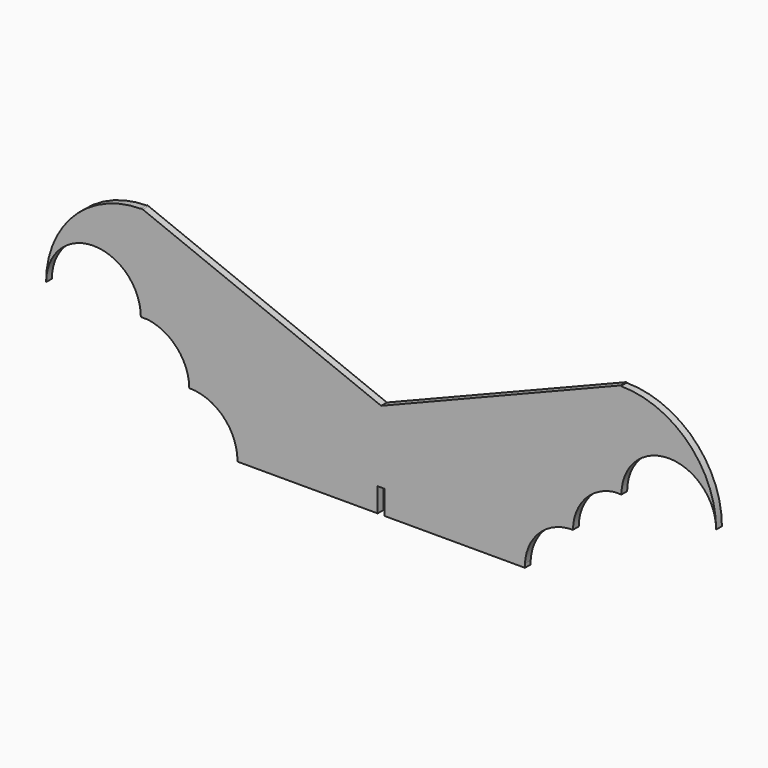
from build123d import *

# Parameters (mm, degrees)
F1_DEPTH = 3
F2_DEPTH = 3
F3_DEPTH = 3


with BuildPart() as f1:
    # F0 (on Front) → F1 (new body)
    with BuildSketch(Plane.XZ):
        with BuildLine():
            Line((-63.069923, -8.252302), (-63.069923, 21.488009))
            Line((-63.069923, 21.488009), (-3.069923, 21.488009))
            Line((-3.069923, 21.488009), (-102.48633, 61.261525))
            ThreePointArc((-102.48633, 61.261525), (-102.778119, 61.264736), (-103.069923, 61.265806))
            ThreePointArc((-103.069923, 61.265806), (-131.197073, 49.615159), (-142.84772, 21.488009))
            Line((-142.84772, 21.488009), (-142.820399, 21.488009))
            ThreePointArc((-142.820399, 21.488009), (-123.16106, 41.238275), (-103.320288, 21.670281))
            ThreePointArc((-103.320288, 21.670281), (-103.195108, 21.671458), (-103.069923, 21.67185))
            ThreePointArc((-103.069923, 21.67185), (-101.715046, 21.625837), (-100.366413, 21.488009))
            ThreePointArc((-100.366413, 21.488009), (-88.104601, 14.924745), (-83.101084, 1.948101))
            ThreePointArc((-83.101084, 1.948101), (-73.605168, -0.428708), (-66.369074, -7.021171))
            ThreePointArc((-66.369074, -7.021171), (-64.722646, -7.64517), (-63.069923, -8.252302))
        make_face()
        with BuildLine():
            Line((-3.069923, 21.488009), (-63.069923, 21.488009))
            Line((-63.069923, 21.488009), (-63.069923, -8.252302))
            ThreePointArc((-63.069923, -8.252302), (-34.240975, -15.927676), (-4.519923, -18.511991))
            Line((-4.519923, -18.511991), (-4.519923, -8.511991))
            Line((-4.519923, -8.511991), (-3.069923, -8.511991))
            Line((-3.069923, -8.511991), (-3.069923, 21.488009))
        make_face()
        with BuildLine():
            Line((96.346485, 61.261525), (-3.069923, 21.488009))
            Line((-3.069923, 21.488009), (56.930077, 21.488009))
            Line((56.930077, 21.488009), (56.930077, -9.352978))
            ThreePointArc((56.930077, -9.352978), (58.132721, -8.936963), (59.33223, -8.511991))
            ThreePointArc((59.33223, -8.511991), (66.707529, -0.856368), (76.961238, 1.948101))
            ThreePointArc((76.961238, 1.948101), (81.964756, 14.924745), (94.226567, 21.488009))
            ThreePointArc((94.226567, 21.488009), (95.5752, 21.625837), (96.930077, 21.67185))
            ThreePointArc((96.930077, 21.67185), (97.055262, 21.671458), (97.180442, 21.670281))
            ThreePointArc((97.180442, 21.670281), (117.021214, 41.238275), (136.680553, 21.488009))
            Line((136.680553, 21.488009), (136.707874, 21.488009))
            ThreePointArc((136.707874, 21.488009), (125.057227, 49.615159), (96.930077, 61.265806))
            ThreePointArc((96.930077, 61.265806), (96.638273, 61.264736), (96.346485, 61.261525))
        make_face()
        with BuildLine():
            Line((56.930077, 21.488009), (-3.069923, 21.488009))
            Line((-3.069923, 21.488009), (-3.069923, -8.511991))
            Line((-3.069923, -8.511991), (-1.619923, -8.511991))
            Line((-1.619923, -8.511991), (-1.619923, -18.511991))
            Line((-1.619923, -18.511991), (0, -18.511991))
            Line((0, -18.511991), (3.505662, -18.511991))
            ThreePointArc((3.505662, -18.511991), (30.583896, -16.067511), (56.930077, -9.352978))
            Line((56.930077, -9.352978), (56.930077, 21.488009))
        make_face()
        with BuildLine():
            ThreePointArc((-4.519923, -18.511991), (-34.240975, -15.927676), (-63.069923, -8.252302))
            Line((-63.069923, -8.252302), (-63.069923, -16.932933))
            ThreePointArc((-63.069923, -16.932933), (-63.040054, -17.72218), (-63.041318, -18.511991))
            Line((-63.041318, -18.511991), (-4.519923, -18.511991))
        make_face()
        with BuildLine():
            Line((-63.069923, -16.932933), (-63.069923, -8.252302))
            ThreePointArc((-63.069923, -8.252302), (-64.722646, -7.64517), (-66.369074, -7.021171))
            ThreePointArc((-66.369074, -7.021171), (-64.062061, -11.758223), (-63.069923, -16.932933))
        make_face()
        with BuildLine():
            ThreePointArc((-103.069923, 61.265806), (-102.778119, 61.264736), (-102.48633, 61.261525))
            Line((-102.48633, 61.261525), (-103.069923, 61.488009))
            Line((-103.069923, 61.488009), (-103.069923, 61.265806))
        make_face()
        with BuildLine():
            Line((96.930077, 61.488009), (96.346485, 61.261525))
            ThreePointArc((96.346485, 61.261525), (96.638273, 61.264736), (96.930077, 61.265806))
            Line((96.930077, 61.265806), (96.930077, 61.488009))
        make_face()
        with BuildLine():
            ThreePointArc((-63.041318, -18.511991), (-63.040054, -17.72218), (-63.069923, -16.932933))
            Line((-63.069923, -16.932933), (-63.069923, -18.085031))
            Line((-63.069923, -18.085031), (-63.069923, -18.511991))
            Line((-63.069923, -18.511991), (-63.041318, -18.511991))
        make_face()
        with BuildLine():
            ThreePointArc((59.33223, -8.511991), (58.132721, -8.936963), (56.930077, -9.352978))
            Line((56.930077, -9.352978), (56.930077, -16.932933))
            ThreePointArc((56.930077, -16.932933), (57.665405, -12.589603), (59.33223, -8.511991))
        make_face()
        with BuildLine():
            Line((56.930077, -16.932933), (56.930077, -9.352978))
            ThreePointArc((56.930077, -9.352978), (30.583896, -16.067511), (3.505662, -18.511991))
            Line((3.505662, -18.511991), (56.901472, -18.511991))
            ThreePointArc((56.901472, -18.511991), (56.900208, -17.72218), (56.930077, -16.932933))
        make_face()
        with BuildLine():
            Line((56.930077, -18.085031), (56.930077, -16.932933))
            ThreePointArc((56.930077, -16.932933), (56.900208, -17.72218), (56.901472, -18.511991))
            Line((56.901472, -18.511991), (56.930077, -18.511991))
            Line((56.930077, -18.511991), (56.930077, -18.085031))
        make_face()
        with BuildLine():
            ThreePointArc((0, -18.511991), (1.752831, -18.520995), (3.505662, -18.511991))
            Line((3.505662, -18.511991), (0, -18.511991))
        make_face()
        with BuildLine():
            Line((-103.069923, 21.488009), (-100.366413, 21.488009))
            ThreePointArc((-100.366413, 21.488009), (-101.715046, 21.625837), (-103.069923, 21.67185))
            Line((-103.069923, 21.67185), (-103.069923, 21.488009))
        make_face()
        with BuildLine():
            Line((-103.069923, 21.488009), (-103.069923, 21.67185))
            ThreePointArc((-103.069923, 21.67185), (-103.195108, 21.671458), (-103.320288, 21.670281))
            ThreePointArc((-103.320288, 21.670281), (-103.319657, 21.579146), (-103.319447, 21.488009))
            Line((-103.319447, 21.488009), (-103.069923, 21.488009))
        make_face()
        with BuildLine():
            ThreePointArc((96.930077, 21.67185), (95.5752, 21.625837), (94.226567, 21.488009))
            Line((94.226567, 21.488009), (96.930077, 21.488009))
            Line((96.930077, 21.488009), (96.930077, 21.67185))
        make_face()
        with BuildLine():
            ThreePointArc((97.179601, 21.488009), (97.179811, 21.579146), (97.180442, 21.670281))
            ThreePointArc((97.180442, 21.670281), (97.055262, 21.671458), (96.930077, 21.67185))
            Line((96.930077, 21.67185), (96.930077, 21.488009))
            Line((96.930077, 21.488009), (97.179601, 21.488009))
        make_face()
    extrude(amount=F1_DEPTH)


with BuildPart() as f2:
    # F0 (on Front) → F2 (new body)
    with BuildSketch(Plane.XZ):
        with BuildLine():
            Line((-63.069923, -8.252302), (-63.069923, 21.488009))
            Line((-63.069923, 21.488009), (-3.069923, 21.488009))
            Line((-3.069923, 21.488009), (-102.48633, 61.261525))
            ThreePointArc((-102.48633, 61.261525), (-102.778119, 61.264736), (-103.069923, 61.265806))
            ThreePointArc((-103.069923, 61.265806), (-131.197073, 49.615159), (-142.84772, 21.488009))
            Line((-142.84772, 21.488009), (-142.820399, 21.488009))
            ThreePointArc((-142.820399, 21.488009), (-123.16106, 41.238275), (-103.320288, 21.670281))
            ThreePointArc((-103.320288, 21.670281), (-103.195108, 21.671458), (-103.069923, 21.67185))
            ThreePointArc((-103.069923, 21.67185), (-101.715046, 21.625837), (-100.366413, 21.488009))
            ThreePointArc((-100.366413, 21.488009), (-88.104601, 14.924745), (-83.101084, 1.948101))
            ThreePointArc((-83.101084, 1.948101), (-73.605168, -0.428708), (-66.369074, -7.021171))
            ThreePointArc((-66.369074, -7.021171), (-64.722646, -7.64517), (-63.069923, -8.252302))
        make_face()
        with BuildLine():
            Line((-3.069923, 21.488009), (-63.069923, 21.488009))
            Line((-63.069923, 21.488009), (-63.069923, -8.252302))
            ThreePointArc((-63.069923, -8.252302), (-34.240975, -15.927676), (-4.519923, -18.511991))
            Line((-4.519923, -18.511991), (-4.519923, -8.511991))
            Line((-4.519923, -8.511991), (-3.069923, -8.511991))
            Line((-3.069923, -8.511991), (-3.069923, 21.488009))
        make_face()
        with BuildLine():
            Line((96.346485, 61.261525), (-3.069923, 21.488009))
            Line((-3.069923, 21.488009), (56.930077, 21.488009))
            Line((56.930077, 21.488009), (56.930077, -9.352978))
            ThreePointArc((56.930077, -9.352978), (58.132721, -8.936963), (59.33223, -8.511991))
            ThreePointArc((59.33223, -8.511991), (66.707529, -0.856368), (76.961238, 1.948101))
            ThreePointArc((76.961238, 1.948101), (81.964756, 14.924745), (94.226567, 21.488009))
            ThreePointArc((94.226567, 21.488009), (95.5752, 21.625837), (96.930077, 21.67185))
            ThreePointArc((96.930077, 21.67185), (97.055262, 21.671458), (97.180442, 21.670281))
            ThreePointArc((97.180442, 21.670281), (117.021214, 41.238275), (136.680553, 21.488009))
            Line((136.680553, 21.488009), (136.707874, 21.488009))
            ThreePointArc((136.707874, 21.488009), (125.057227, 49.615159), (96.930077, 61.265806))
            ThreePointArc((96.930077, 61.265806), (96.638273, 61.264736), (96.346485, 61.261525))
        make_face()
        with BuildLine():
            Line((56.930077, 21.488009), (-3.069923, 21.488009))
            Line((-3.069923, 21.488009), (-3.069923, -8.511991))
            Line((-3.069923, -8.511991), (-1.619923, -8.511991))
            Line((-1.619923, -8.511991), (-1.619923, -18.511991))
            Line((-1.619923, -18.511991), (0, -18.511991))
            Line((0, -18.511991), (3.505662, -18.511991))
            ThreePointArc((3.505662, -18.511991), (30.583896, -16.067511), (56.930077, -9.352978))
            Line((56.930077, -9.352978), (56.930077, 21.488009))
        make_face()
        with BuildLine():
            ThreePointArc((-4.519923, -18.511991), (-34.240975, -15.927676), (-63.069923, -8.252302))
            Line((-63.069923, -8.252302), (-63.069923, -16.932933))
            ThreePointArc((-63.069923, -16.932933), (-63.040054, -17.72218), (-63.041318, -18.511991))
            Line((-63.041318, -18.511991), (-4.519923, -18.511991))
        make_face()
        with BuildLine():
            Line((-63.069923, -16.932933), (-63.069923, -8.252302))
            ThreePointArc((-63.069923, -8.252302), (-64.722646, -7.64517), (-66.369074, -7.021171))
            ThreePointArc((-66.369074, -7.021171), (-64.062061, -11.758223), (-63.069923, -16.932933))
        make_face()
        with BuildLine():
            ThreePointArc((-103.069923, 61.265806), (-102.778119, 61.264736), (-102.48633, 61.261525))
            Line((-102.48633, 61.261525), (-103.069923, 61.488009))
            Line((-103.069923, 61.488009), (-103.069923, 61.265806))
        make_face()
        with BuildLine():
            Line((96.930077, 61.488009), (96.346485, 61.261525))
            ThreePointArc((96.346485, 61.261525), (96.638273, 61.264736), (96.930077, 61.265806))
            Line((96.930077, 61.265806), (96.930077, 61.488009))
        make_face()
        with BuildLine():
            ThreePointArc((-63.041318, -18.511991), (-63.040054, -17.72218), (-63.069923, -16.932933))
            Line((-63.069923, -16.932933), (-63.069923, -18.085031))
            Line((-63.069923, -18.085031), (-63.069923, -18.511991))
            Line((-63.069923, -18.511991), (-63.041318, -18.511991))
        make_face()
        with BuildLine():
            ThreePointArc((59.33223, -8.511991), (58.132721, -8.936963), (56.930077, -9.352978))
            Line((56.930077, -9.352978), (56.930077, -16.932933))
            ThreePointArc((56.930077, -16.932933), (57.665405, -12.589603), (59.33223, -8.511991))
        make_face()
        with BuildLine():
            Line((56.930077, -16.932933), (56.930077, -9.352978))
            ThreePointArc((56.930077, -9.352978), (30.583896, -16.067511), (3.505662, -18.511991))
            Line((3.505662, -18.511991), (56.901472, -18.511991))
            ThreePointArc((56.901472, -18.511991), (56.900208, -17.72218), (56.930077, -16.932933))
        make_face()
        with BuildLine():
            Line((56.930077, -18.085031), (56.930077, -16.932933))
            ThreePointArc((56.930077, -16.932933), (56.900208, -17.72218), (56.901472, -18.511991))
            Line((56.901472, -18.511991), (56.930077, -18.511991))
            Line((56.930077, -18.511991), (56.930077, -18.085031))
        make_face()
        with BuildLine():
            ThreePointArc((0, -18.511991), (1.752831, -18.520995), (3.505662, -18.511991))
            Line((3.505662, -18.511991), (0, -18.511991))
        make_face()
        with BuildLine():
            Line((-103.069923, 21.488009), (-100.366413, 21.488009))
            ThreePointArc((-100.366413, 21.488009), (-101.715046, 21.625837), (-103.069923, 21.67185))
            Line((-103.069923, 21.67185), (-103.069923, 21.488009))
        make_face()
        with BuildLine():
            Line((-103.069923, 21.488009), (-103.069923, 21.67185))
            ThreePointArc((-103.069923, 21.67185), (-103.195108, 21.671458), (-103.320288, 21.670281))
            ThreePointArc((-103.320288, 21.670281), (-103.319657, 21.579146), (-103.319447, 21.488009))
            Line((-103.319447, 21.488009), (-103.069923, 21.488009))
        make_face()
        with BuildLine():
            ThreePointArc((96.930077, 21.67185), (95.5752, 21.625837), (94.226567, 21.488009))
            Line((94.226567, 21.488009), (96.930077, 21.488009))
            Line((96.930077, 21.488009), (96.930077, 21.67185))
        make_face()
        with BuildLine():
            ThreePointArc((97.179601, 21.488009), (97.179811, 21.579146), (97.180442, 21.670281))
            ThreePointArc((97.180442, 21.670281), (97.055262, 21.671458), (96.930077, 21.67185))
            Line((96.930077, 21.67185), (96.930077, 21.488009))
            Line((96.930077, 21.488009), (97.179601, 21.488009))
        make_face()
    extrude(amount=F2_DEPTH)


with BuildPart() as f3:
    # F0 (on Front) → F3 (new body)
    with BuildSketch(Plane.XZ):
        with BuildLine():
            Line((-63.069923, -8.252302), (-63.069923, 21.488009))
            Line((-63.069923, 21.488009), (-3.069923, 21.488009))
            Line((-3.069923, 21.488009), (-102.48633, 61.261525))
            ThreePointArc((-102.48633, 61.261525), (-102.778119, 61.264736), (-103.069923, 61.265806))
            ThreePointArc((-103.069923, 61.265806), (-131.197073, 49.615159), (-142.84772, 21.488009))
            Line((-142.84772, 21.488009), (-142.820399, 21.488009))
            ThreePointArc((-142.820399, 21.488009), (-123.16106, 41.238275), (-103.320288, 21.670281))
            ThreePointArc((-103.320288, 21.670281), (-103.195108, 21.671458), (-103.069923, 21.67185))
            ThreePointArc((-103.069923, 21.67185), (-101.715046, 21.625837), (-100.366413, 21.488009))
            ThreePointArc((-100.366413, 21.488009), (-88.104601, 14.924745), (-83.101084, 1.948101))
            ThreePointArc((-83.101084, 1.948101), (-73.605168, -0.428708), (-66.369074, -7.021171))
            ThreePointArc((-66.369074, -7.021171), (-64.722646, -7.64517), (-63.069923, -8.252302))
        make_face()
        with BuildLine():
            Line((-3.069923, 21.488009), (-63.069923, 21.488009))
            Line((-63.069923, 21.488009), (-63.069923, -8.252302))
            ThreePointArc((-63.069923, -8.252302), (-34.240975, -15.927676), (-4.519923, -18.511991))
            Line((-4.519923, -18.511991), (-4.519923, -8.511991))
            Line((-4.519923, -8.511991), (-3.069923, -8.511991))
            Line((-3.069923, -8.511991), (-3.069923, 21.488009))
        make_face()
        with BuildLine():
            Line((96.346485, 61.261525), (-3.069923, 21.488009))
            Line((-3.069923, 21.488009), (56.930077, 21.488009))
            Line((56.930077, 21.488009), (56.930077, -9.352978))
            ThreePointArc((56.930077, -9.352978), (58.132721, -8.936963), (59.33223, -8.511991))
            ThreePointArc((59.33223, -8.511991), (66.707529, -0.856368), (76.961238, 1.948101))
            ThreePointArc((76.961238, 1.948101), (81.964756, 14.924745), (94.226567, 21.488009))
            ThreePointArc((94.226567, 21.488009), (95.5752, 21.625837), (96.930077, 21.67185))
            ThreePointArc((96.930077, 21.67185), (97.055262, 21.671458), (97.180442, 21.670281))
            ThreePointArc((97.180442, 21.670281), (117.021214, 41.238275), (136.680553, 21.488009))
            Line((136.680553, 21.488009), (136.707874, 21.488009))
            ThreePointArc((136.707874, 21.488009), (125.057227, 49.615159), (96.930077, 61.265806))
            ThreePointArc((96.930077, 61.265806), (96.638273, 61.264736), (96.346485, 61.261525))
        make_face()
        with BuildLine():
            Line((56.930077, 21.488009), (-3.069923, 21.488009))
            Line((-3.069923, 21.488009), (-3.069923, -8.511991))
            Line((-3.069923, -8.511991), (-1.619923, -8.511991))
            Line((-1.619923, -8.511991), (-1.619923, -18.511991))
            Line((-1.619923, -18.511991), (0, -18.511991))
            Line((0, -18.511991), (3.505662, -18.511991))
            ThreePointArc((3.505662, -18.511991), (30.583896, -16.067511), (56.930077, -9.352978))
            Line((56.930077, -9.352978), (56.930077, 21.488009))
        make_face()
        with BuildLine():
            ThreePointArc((-4.519923, -18.511991), (-34.240975, -15.927676), (-63.069923, -8.252302))
            Line((-63.069923, -8.252302), (-63.069923, -16.932933))
            ThreePointArc((-63.069923, -16.932933), (-63.040054, -17.72218), (-63.041318, -18.511991))
            Line((-63.041318, -18.511991), (-4.519923, -18.511991))
        make_face()
        with BuildLine():
            Line((-63.069923, -16.932933), (-63.069923, -8.252302))
            ThreePointArc((-63.069923, -8.252302), (-64.722646, -7.64517), (-66.369074, -7.021171))
            ThreePointArc((-66.369074, -7.021171), (-64.062061, -11.758223), (-63.069923, -16.932933))
        make_face()
        with BuildLine():
            ThreePointArc((-103.069923, 61.265806), (-102.778119, 61.264736), (-102.48633, 61.261525))
            Line((-102.48633, 61.261525), (-103.069923, 61.488009))
            Line((-103.069923, 61.488009), (-103.069923, 61.265806))
        make_face()
        with BuildLine():
            Line((96.930077, 61.488009), (96.346485, 61.261525))
            ThreePointArc((96.346485, 61.261525), (96.638273, 61.264736), (96.930077, 61.265806))
            Line((96.930077, 61.265806), (96.930077, 61.488009))
        make_face()
        with BuildLine():
            ThreePointArc((-63.041318, -18.511991), (-63.040054, -17.72218), (-63.069923, -16.932933))
            Line((-63.069923, -16.932933), (-63.069923, -18.085031))
            Line((-63.069923, -18.085031), (-63.069923, -18.511991))
            Line((-63.069923, -18.511991), (-63.041318, -18.511991))
        make_face()
        with BuildLine():
            ThreePointArc((59.33223, -8.511991), (58.132721, -8.936963), (56.930077, -9.352978))
            Line((56.930077, -9.352978), (56.930077, -16.932933))
            ThreePointArc((56.930077, -16.932933), (57.665405, -12.589603), (59.33223, -8.511991))
        make_face()
        with BuildLine():
            Line((56.930077, -16.932933), (56.930077, -9.352978))
            ThreePointArc((56.930077, -9.352978), (30.583896, -16.067511), (3.505662, -18.511991))
            Line((3.505662, -18.511991), (56.901472, -18.511991))
            ThreePointArc((56.901472, -18.511991), (56.900208, -17.72218), (56.930077, -16.932933))
        make_face()
        with BuildLine():
            Line((56.930077, -18.085031), (56.930077, -16.932933))
            ThreePointArc((56.930077, -16.932933), (56.900208, -17.72218), (56.901472, -18.511991))
            Line((56.901472, -18.511991), (56.930077, -18.511991))
            Line((56.930077, -18.511991), (56.930077, -18.085031))
        make_face()
        with BuildLine():
            ThreePointArc((0, -18.511991), (1.752831, -18.520995), (3.505662, -18.511991))
            Line((3.505662, -18.511991), (0, -18.511991))
        make_face()
        with BuildLine():
            Line((-103.069923, 21.488009), (-100.366413, 21.488009))
            ThreePointArc((-100.366413, 21.488009), (-101.715046, 21.625837), (-103.069923, 21.67185))
            Line((-103.069923, 21.67185), (-103.069923, 21.488009))
        make_face()
        with BuildLine():
            Line((-103.069923, 21.488009), (-103.069923, 21.67185))
            ThreePointArc((-103.069923, 21.67185), (-103.195108, 21.671458), (-103.320288, 21.670281))
            ThreePointArc((-103.320288, 21.670281), (-103.319657, 21.579146), (-103.319447, 21.488009))
            Line((-103.319447, 21.488009), (-103.069923, 21.488009))
        make_face()
        with BuildLine():
            ThreePointArc((96.930077, 21.67185), (95.5752, 21.625837), (94.226567, 21.488009))
            Line((94.226567, 21.488009), (96.930077, 21.488009))
            Line((96.930077, 21.488009), (96.930077, 21.67185))
        make_face()
        with BuildLine():
            ThreePointArc((97.179601, 21.488009), (97.179811, 21.579146), (97.180442, 21.670281))
            ThreePointArc((97.180442, 21.670281), (97.055262, 21.671458), (96.930077, 21.67185))
            Line((96.930077, 21.67185), (96.930077, 21.488009))
            Line((96.930077, 21.488009), (97.179601, 21.488009))
        make_face()
    extrude(amount=F3_DEPTH)


solid = Compound([f1.part, f2.part, f3.part])
